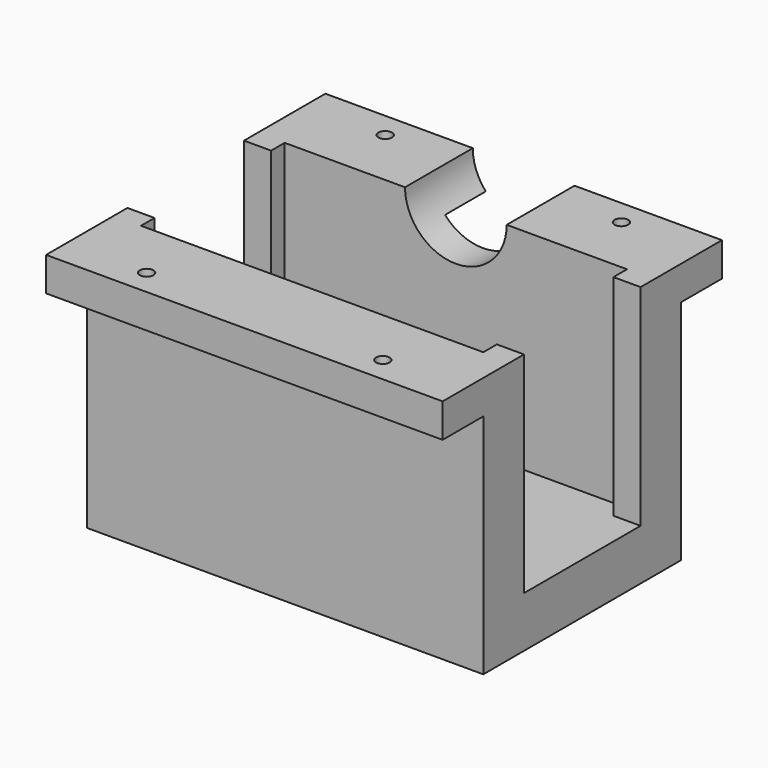
from build123d import *

# Parameters (mm, degrees)
F1_DEPTH  = 58.5
F3_DEPTH  = 136.4
F4_R      = 2
F5_DEPTH  = 25
F6_W      = 5
F6_H      = 31
F7_DEPTH  = 50.5
F8_W      = 117
F8_H      = 73
F9_DEPTH  = 31
F11_DEPTH = 31


with BuildPart() as f1:
    # F0 (on Right) → F1 (new body, symmetric)
    with BuildSketch(Plane.YZ):
        Polygon((51.5, 23), (36.5, 23), (21.5, 23), (21.5, -8), (0, -8), (-21.5, -8), (-21.5, 23), (-36.5, 23), (-51.5, 23), (-51.5, 13), (-36.5, 13), (-36.5, -23), (36.5, -23), (36.5, 13), (51.5, 13), align=None)
    extrude(amount=F1_DEPTH, both=True)

    # F2 (on Front) → F3 (cut)
    with BuildSketch(Plane.XZ):
        with BuildLine():
            ThreePointArc((-15, 23), (0, 8), (15, 23))
            Line((15, 23), (-15, 23))
        make_face()
    extrude(amount=-F3_DEPTH, mode=Mode.SUBTRACT)

    # F4 (on Top) → F5 (cut)
    with BuildSketch(Plane.XY):
        with Locations((-34.84017, -44)):
            Circle(F4_R)
        with Locations((34.84017, -44)):
            Circle(F4_R)
        with Locations((-34.84017, 44)):
            Circle(F4_R)
        with Locations((34.84017, 44)):
            Circle(F4_R)
    extrude(amount=F5_DEPTH, mode=Mode.SUBTRACT)

    # F6 (on Right) → F7 (cut, symmetric)
    with BuildSketch(Plane.YZ):
        with Locations((-24, 7.5)):
            Rectangle(F6_W, F6_H)
        with Locations((24, 7.5)):
            Rectangle(F6_W, F6_H)
    extrude(amount=F7_DEPTH, both=True, mode=Mode.SUBTRACT)

    # F8 (on face) → F9 (join)
    with BuildSketch(Plane(origin=(0, 0, -23), x_dir=(1, 0, 0), z_dir=(0, 0, -1))):
        Rectangle(F8_W, F8_H)
    extrude(amount=F9_DEPTH)

    # F10 (on face) → F11 (cut)
    with BuildSketch(Plane.XY.offset(-8)):
        Polygon((-50.5, 21.5), (-58.5, 21.5), (-58.5, -21.5), (-50.5, -21.5), (-50.5, -26.5), (50.5, -26.5), (50.5, -21.5), (58.5, -21.5), (58.5, 21.5), (50.5, 21.5), (50.5, 26.5), (-50.5, 26.5), align=None)
    extrude(amount=-F11_DEPTH, mode=Mode.SUBTRACT)


solid = f1.part
